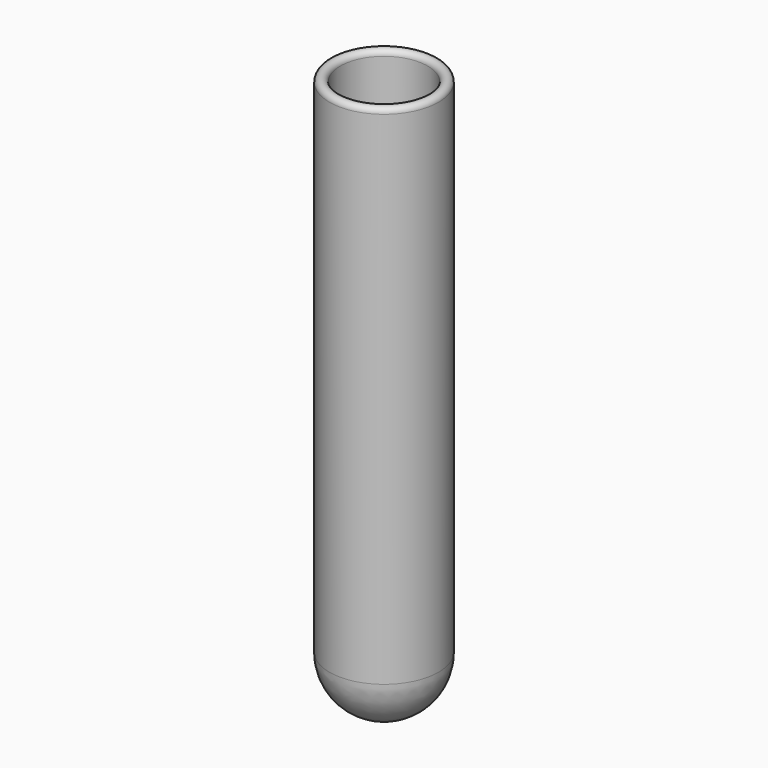
from build123d import *


with BuildPart() as f1:
    # F0 (on Right) → F1 (revolve)
    with BuildSketch(Plane.YZ):
        with BuildLine():
            Line((-4, 0), (-4, 46))
            ThreePointArc((-4, 46), (-4.5, 46.5), (-5, 46))
            Line((-5, 46), (-5, 0))
            ThreePointArc((-5, 0), (-3.535534, -3.535534), (0, -5))
            Line((0, -5), (0, -4))
            ThreePointArc((0, -4), (-2.828427, -2.828427), (-4, 0))
        make_face()
    revolve(axis=Axis((0, 0, 21.078432), (0, 0, 1)))


solid = f1.part
